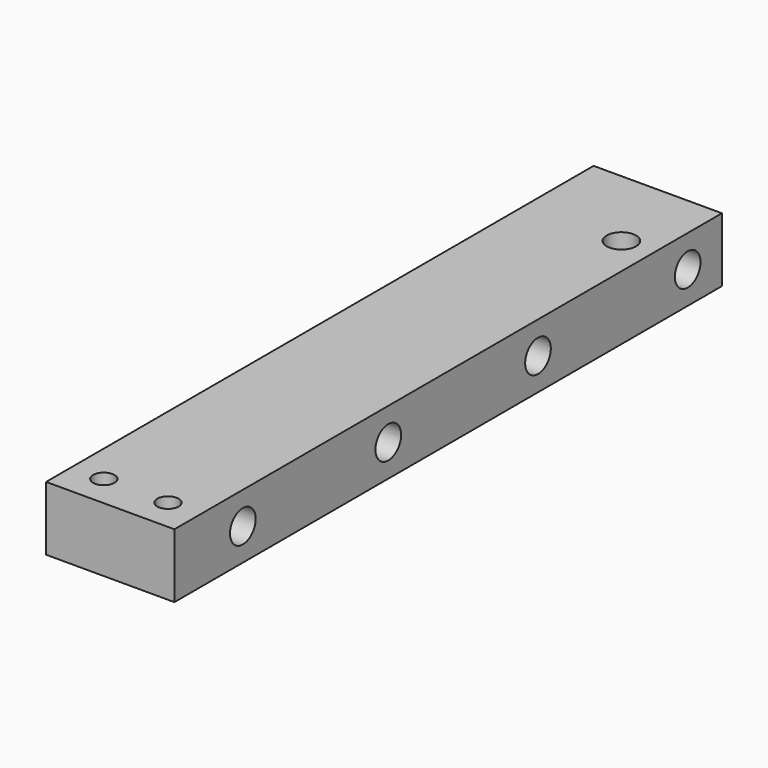
from build123d import *

# Parameters (mm, degrees)
F0_W     = 38.1
F0_H     = 203.2
F1_DEPTH = 19.05
F2_R     = 4.7625
F3_DEPTH = 38.101
F4_R     = 3.175
F5_DEPTH = 19.051
F6_R     = 4.365625
F7_DEPTH = 19.051
F8_DEPTH = 12.7


with BuildPart() as f1:
    # F0 (on Top) → F1 (new body)
    with BuildSketch(Plane.XY):
        Rectangle(F0_W, F0_H)
    extrude(amount=F1_DEPTH)

    # F2 (on face) → F3 (cut, through all)
    with BuildSketch(Plane.YZ.offset(19.05)):
        with Locations((88.9, 9.525)):
            Circle(F2_R)
    extrude(amount=-F3_DEPTH, mode=Mode.SUBTRACT)

    # F4 (on face) → F5 (cut, through all)
    with BuildSketch(Plane.XY.offset(19.05)):
        with Locations((-9.525, -92.075)):
            Circle(F4_R)
        with Locations((9.525, -92.075)):
            Circle(F4_R)
    extrude(amount=-F5_DEPTH, mode=Mode.SUBTRACT)

    # F6 (on face) → F7 (cut, through all)
    with BuildSketch(Plane.XY.offset(19.05)):
        with Locations((9.525, 76.2)):
            Circle(F6_R)
    extrude(amount=-F7_DEPTH, mode=Mode.SUBTRACT)

    # F2 (on face) → F8 (cut)
    with BuildSketch(Plane.YZ.offset(19.05)):
        with Locations((33.3375, 9.525)):
            Circle(F2_R)
        with Locations((-22.225, 9.525)):
            Circle(F2_R)
        with Locations((-76.2, 9.525)):
            Circle(F2_R)
    extrude(amount=-F8_DEPTH, mode=Mode.SUBTRACT)


solid = f1.part
